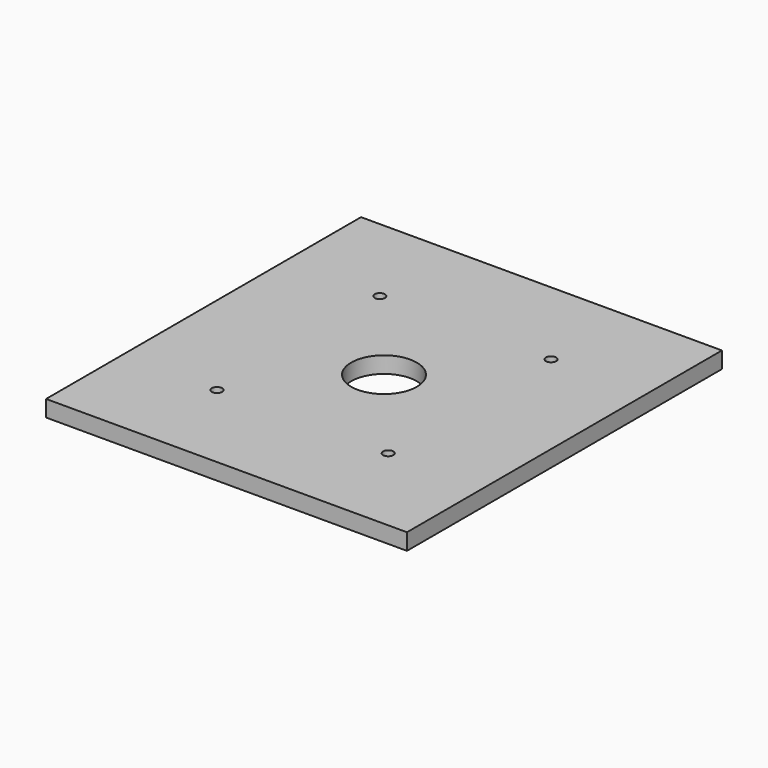
from build123d import *

# Parameters (mm, degrees)
F0_W           = 139.7
F0_H           = 152.4
F0_R           = 3.175
F0_R_2         = 1.984375
F0_R_3         = 12.7
F1_DEPTH       = 6.35
F2_R           = 3.175
F3_DEPTH       = 12.7
F5_D           = 3.9624
F5_CBORE_D     = 10.31875
F5_CBORE_DEPTH = 3.3734375


with BuildPart() as f1:
    # F0 (on Top) → F1 (new body)
    with BuildSketch(Plane.XY):
        Rectangle(F0_W, F0_H)
        with Locations((-50.8, -50.8)):
            Circle(F0_R, mode=Mode.SUBTRACT)
        with Locations((-25.4, -50.8)):
            Circle(F0_R, mode=Mode.SUBTRACT)
        with Locations((-33.1390625, -39.38984375)):
            Circle(F0_R_2, mode=Mode.SUBTRACT)
        with Locations((-50.8, -25.4)):
            Circle(F0_R, mode=Mode.SUBTRACT)
        with Locations((-25.4, -25.4)):
            Circle(F0_R, mode=Mode.SUBTRACT)
        with Locations((0, -50.8)):
            Circle(F0_R, mode=Mode.SUBTRACT)
        with Locations((25.4, -50.8)):
            Circle(F0_R, mode=Mode.SUBTRACT)
        with Locations((33.1390625, -39.38984375)):
            Circle(F0_R_2, mode=Mode.SUBTRACT)
        with Locations((50.8, -50.8)):
            Circle(F0_R, mode=Mode.SUBTRACT)
        with Locations((0, -25.4)):
            Circle(F0_R, mode=Mode.SUBTRACT)
        with Locations((25.4, -25.4)):
            Circle(F0_R, mode=Mode.SUBTRACT)
        with Locations((50.8, -25.4)):
            Circle(F0_R, mode=Mode.SUBTRACT)
        with Locations((-50.8, 0)):
            Circle(F0_R, mode=Mode.SUBTRACT)
        with Locations((-50.8, 25.4)):
            Circle(F0_R, mode=Mode.SUBTRACT)
        with Locations((-25.4, 0)):
            Circle(F0_R, mode=Mode.SUBTRACT)
        with Locations((-25.4, 25.4)):
            Circle(F0_R, mode=Mode.SUBTRACT)
        with Locations((-50.8, 50.8)):
            Circle(F0_R, mode=Mode.SUBTRACT)
        with Locations((-33.1390625, 39.38984375)):
            Circle(F0_R_2, mode=Mode.SUBTRACT)
        with Locations((-25.4, 50.8)):
            Circle(F0_R, mode=Mode.SUBTRACT)
        Circle(F0_R_3, mode=Mode.SUBTRACT)
        with Locations((25.4, 0)):
            Circle(F0_R, mode=Mode.SUBTRACT)
        with Locations((0, 25.4)):
            Circle(F0_R, mode=Mode.SUBTRACT)
        with Locations((25.4, 25.4)):
            Circle(F0_R, mode=Mode.SUBTRACT)
        with Locations((50.8, 0)):
            Circle(F0_R, mode=Mode.SUBTRACT)
        with Locations((50.8, 25.4)):
            Circle(F0_R, mode=Mode.SUBTRACT)
        with Locations((0, 50.8)):
            Circle(F0_R, mode=Mode.SUBTRACT)
        with Locations((33.1390625, 39.38984375)):
            Circle(F0_R_2, mode=Mode.SUBTRACT)
        with Locations((25.4, 50.8)):
            Circle(F0_R, mode=Mode.SUBTRACT)
        with Locations((50.8, 50.8)):
            Circle(F0_R, mode=Mode.SUBTRACT)
        with Locations((-25.4, 50.8)):
            Circle(F0_R)
        with Locations((0, 50.8)):
            Circle(F0_R)
        with Locations((25.4, 50.8)):
            Circle(F0_R)
        with Locations((50.8, 25.4)):
            Circle(F0_R)
        with Locations((50.8, 0)):
            Circle(F0_R)
        with Locations((50.8, -25.4)):
            Circle(F0_R)
        with Locations((25.4, -50.8)):
            Circle(F0_R)
        with Locations((0, -50.8)):
            Circle(F0_R)
        with Locations((-25.4, -50.8)):
            Circle(F0_R)
        with Locations((-50.8, -25.4)):
            Circle(F0_R)
        with Locations((-50.8, 0)):
            Circle(F0_R)
        with Locations((-50.8, 25.4)):
            Circle(F0_R)
        with Locations((-25.4, 25.4)):
            Circle(F0_R)
        with Locations((0, 25.4)):
            Circle(F0_R)
        with Locations((25.4, 25.4)):
            Circle(F0_R)
        with Locations((25.4, 0)):
            Circle(F0_R)
        with Locations((25.4, -25.4)):
            Circle(F0_R)
        with Locations((0, -25.4)):
            Circle(F0_R)
        with Locations((-25.4, 0)):
            Circle(F0_R)
        with Locations((-25.4, -25.4)):
            Circle(F0_R)
    extrude(amount=F1_DEPTH)

    # F2 (on face) → F3 (join)
    with BuildSketch(Plane.XY.offset(6.35)):
        with Locations((50.8, -50.8)):
            Circle(F2_R)
        with Locations((-50.8, -50.8)):
            Circle(F2_R)
        with Locations((-50.8, 50.8)):
            Circle(F2_R)
        with Locations((50.8, 50.8)):
            Circle(F2_R)
    extrude(amount=-F3_DEPTH)

    # F5 (through all)
    with Locations(Plane(origin=(0, 0, 0), x_dir=(1, 0, 0), z_dir=(0, 0, -1))):
        with Locations((-33.1390625, 39.38984375), (33.1390625, 39.38984375), (33.1390625, -39.38984375), (-33.1390625, -39.38984375)):
            CounterBoreHole(F5_D / 2, F5_CBORE_D / 2, F5_CBORE_DEPTH)


solid = f1.part
